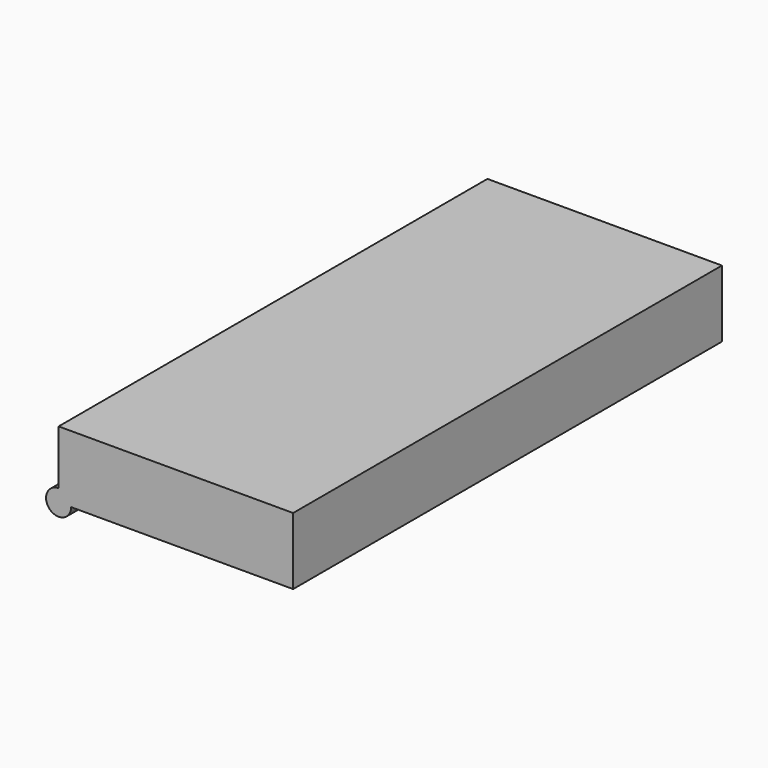
from build123d import *

# Parameters (mm, degrees)
F1_DEPTH = 80


with BuildPart() as f1:
    # F0 (on Front) → F1 (new body, symmetric)
    with BuildSketch(Plane.XZ):
        with BuildLine():
            Line((-66.25, 0), (0, 0))
            Line((0, 0), (0, 20))
            Line((0, 20), (-70, 20))
            Line((-70, 20), (-70, 3.75))
            ThreePointArc((-70, 3.75), (-67.3483495706, 2.6516504294), (-66.25, 0))
        make_face()
        with BuildLine():
            ThreePointArc((-70, 3.75), (-72.6516504294, -2.6516504294), (-66.25, 0))
            Line((-66.25, 0), (-70, 0))
            Line((-70, 0), (-70, 3.75))
        make_face()
        with BuildLine():
            Line((-70, 0), (-66.25, 0))
            ThreePointArc((-66.25, 0), (-67.3483495706, 2.6516504294), (-70, 3.75))
            Line((-70, 3.75), (-70, 0))
        make_face()
    extrude(amount=F1_DEPTH, both=True)


solid = f1.part
